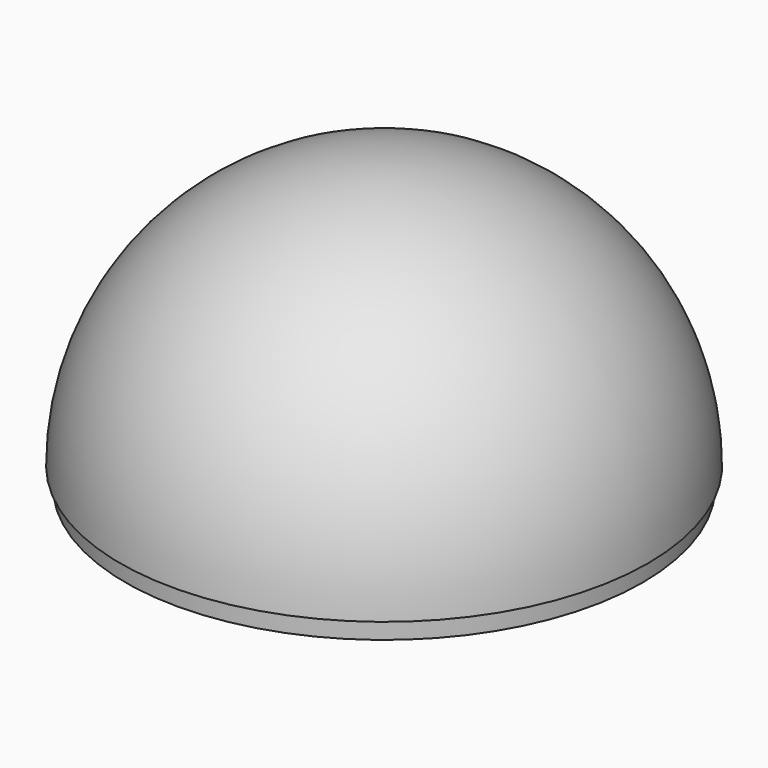
from build123d import *


with BuildPart() as f1:
    # F0 (on Front) → F1 (revolve)
    with BuildSketch(Plane.XZ):
        with BuildLine():
            Line((0, 55.5), (0, 54.5))
            ThreePointArc((0, 54.5), (38.5373195747, 38.5373195747), (54.5, 0))
            Line((54.5, 0), (55.5, 0))
            ThreePointArc((55.5, 0), (39.2444263559, 39.2444263559), (0, 55.5))
        make_face()
        with BuildLine():
            Line((0, 56.5), (0, 55.5))
            ThreePointArc((0, 55.5), (39.2444263559, 39.2444263559), (55.5, 0))
            Line((55.5, 0), (56.5, 0))
            ThreePointArc((56.5, 0), (39.951533137, 39.951533137), (0, 56.5))
        make_face()
        with BuildLine():
            Line((55.5, 0), (54.5, 0))
            ThreePointArc((54.5, 0), (54.4632408023, -2.0013498718), (54.353012796, -4))
            Line((54.353012796, -4), (55.3556681831, -4))
            ThreePointArc((55.3556681831, -4), (55.4639053086, -2.0013015561), (55.5, 0))
        make_face()
    revolve(axis=Axis((0, 0, 28.25), (0, 0, 1)))


solid = f1.part
